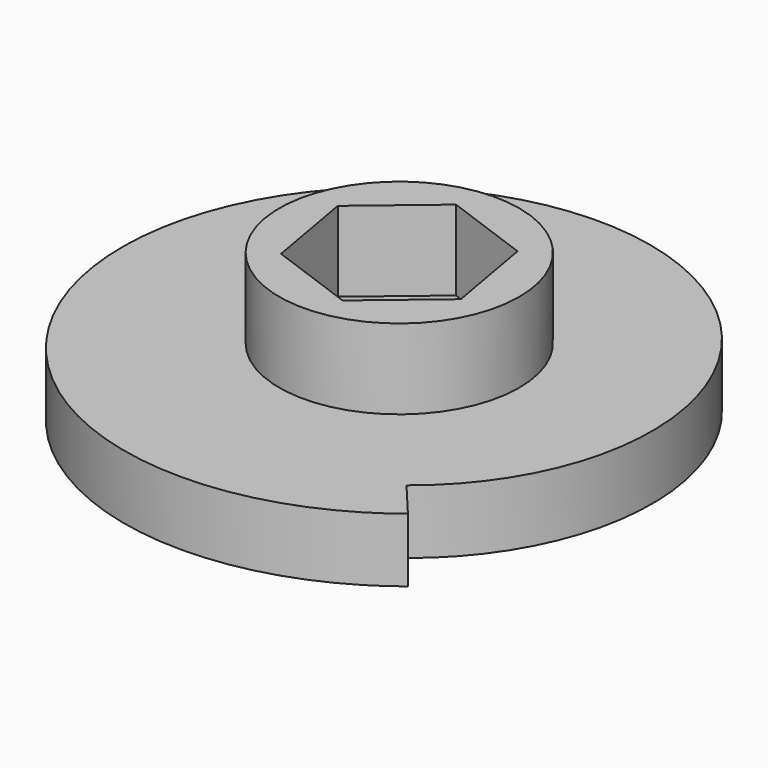
from build123d import *

# Parameters (mm, degrees)
PAD_DEPTH               = 8
SKETCH019_R             = 15
PAD010_DEPTH            = 10
SKETCH020_R             = 3.2
POCKET_DEPTH            = 18.001
BODY005_PLACEMENT_ANGLE = 310


with BuildPart() as part:
    # Sketch018 → Pad (new body)
    with BuildSketch(Plane.XY):
        with BuildLine():
            add(Edge.make_bspline(
                [(30, 0), (30.272727, 8.56798), (27.853744, 17.307319), (22.653329, 25.278439), (14.950718, 31.494746), (5.420543, 35.088391), (-4.927781, 35.491962), (-14.908573, 32.583746), (-23.388897, 26.726717), (-29.493664, 18.678196), (-32.727273, 9.424778), (-33.272727, -9.424778), (-30.584573, -19.020915), (-24.845816, -27.754875), (-16.372589, -34.546103), (-5.913321, -38.44936), (5.420559, -38.852932), (16.330444, -35.635102), (25.581384, -29.203153), (32.224493, -20.391792), (35.727273, -10.281576), (36, 0)],
                knots=[0, 0, 0, 0, 0, 0, 0, 0, 0, 0, 0, 0, 3.181133, 3.181133, 3.181133, 3.181133, 3.181133, 3.181133, 3.181133, 3.181133, 3.181133, 3.181133, 6.362265, 6.362265, 6.362265, 6.362265, 6.362265, 6.362265, 6.362265, 6.362265, 6.362265, 6.362265, 6.362265, 6.362265], degree=11))
            Line((36, 0), (30, 0))
        make_face()
    extrude(amount=PAD_DEPTH)

    # Sketch019 (on Face4 of Pad) → Pad010 (join)
    with BuildSketch(Plane.XY.offset(8)):
        Circle(SKETCH019_R)
        Polygon((0, -11.547005), (10, -5.773503), (10, 5.773503), (0, 11.547005), (-10, 5.773503), (-10, -5.773503), align=None, mode=Mode.SUBTRACT)
    extrude(amount=PAD010_DEPTH)

    # Sketch020 (on Face3 of Pad010) → Pocket (cut, through all)
    with BuildSketch(Plane(origin=(0, 0, 0), x_dir=(1, 0, 0), z_dir=(0, 0, -1))):
        Circle(SKETCH020_R)
    extrude(amount=-POCKET_DEPTH, mode=Mode.SUBTRACT)


with BuildPart() as part_1:
    # Body005 placement: moved
    add(part.part.moved(Location((0, 12, -16))).rotate(Axis((0, 12, -16), (0, 0, 1)), BODY005_PLACEMENT_ANGLE))


solid = part_1.part
